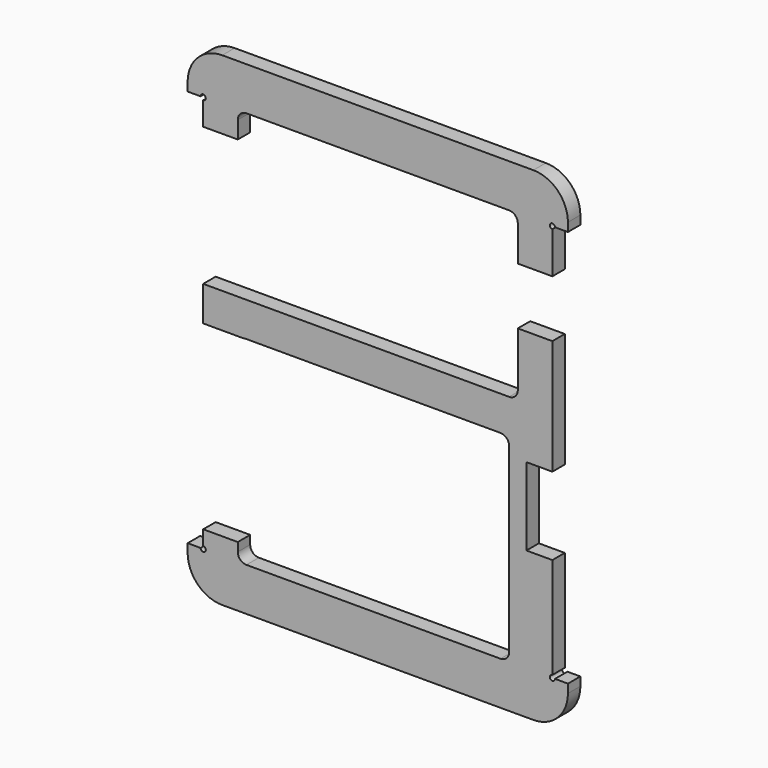
from build123d import *

# Parameters (mm, degrees)
F1_DEPTH = 9


with BuildPart() as f1:
    # F0 (on Front) → F1 (new body)
    with BuildSketch(Plane.XZ):
        with BuildLine():
            Line((90, 137.55102), (-90, 137.55102))
            ThreePointArc((-90, 137.55102), (-104.142136, 131.693156), (-110, 117.55102))
            Line((-110, 117.55102), (-110, 112.55102))
            Line((-110, 112.55102), (-102.5, 112.55102))
            ThreePointArc((-102.5, 112.55102), (-101, 114.05102), (-99.5, 112.55102))
            ThreePointArc((-99.5, 112.55102), (-99.93934, 111.49036), (-101, 111.05102))
            Line((-101, 111.05102), (-101, 97.55102))
            Line((-101, 97.55102), (-81, 97.55102))
            Line((-81, 97.55102), (-81, 107.55102))
            ThreePointArc((-81, 107.55102), (-79.535534, 111.086554), (-76, 112.55102))
            Line((-76, 112.55102), (76, 112.55102))
            ThreePointArc((76, 112.55102), (79.535534, 111.086554), (81, 107.55102))
            Line((81, 107.55102), (81, 87.05102))
            Line((81, 87.05102), (101, 87.05102))
            Line((101, 87.05102), (101, 111.05102))
            ThreePointArc((101, 111.05102), (99.93934, 113.611681), (102.5, 112.55102))
            Line((102.5, 112.55102), (110, 112.55102))
            Line((110, 112.55102), (110, 117.55102))
            ThreePointArc((110, 117.55102), (104.142136, 131.693156), (90, 137.55102))
        make_face()
        with BuildLine():
            ThreePointArc((-110, -122.44898), (-104.142136, -136.591115), (-90, -142.44898))
            Line((-90, -142.44898), (90, -142.44898))
            ThreePointArc((90, -142.44898), (104.142136, -136.591115), (110, -122.44898))
            Line((110, -122.44898), (110, -117.44898))
            Line((110, -117.44898), (102.5, -117.44898))
            ThreePointArc((102.5, -117.44898), (99.93934, -118.50964), (101, -115.94898))
            Line((101, -115.94898), (101, -107.44898))
            Line((101, -107.44898), (101, -57.44898))
            Line((101, -57.44898), (86, -57.44898))
            Line((86, -57.44898), (86, -12.44898))
            Line((86, -12.44898), (101, -12.44898))
            Line((101, -12.44898), (101, 54.05102))
            Line((101, 54.05102), (81, 54.05102))
            Line((81, 54.05102), (81, 22.55102))
            ThreePointArc((81, 22.55102), (79.535534, 19.015487), (76, 17.55102))
            Line((76, 17.55102), (-76, 17.55102))
            Line((-76, 17.55102), (-101, 17.55102))
            Line((-101, 17.55102), (-101, -2.618334))
            Line((-101, -2.618334), (-77.290298, -2.618334))
            ThreePointArc((-77.290298, -2.618334), (-76.650682, -2.491499), (-76, -2.44898))
            Line((-76, -2.44898), (71, -2.44898))
            ThreePointArc((71, -2.44898), (74.535534, -3.913446), (76, -7.44898))
            Line((76, -7.44898), (76, -33.110831))
            Line((76, -33.110831), (76, -112.44898))
            ThreePointArc((76, -112.44898), (74.535534, -115.984513), (71, -117.44898))
            Line((71, -117.44898), (-76, -117.44898))
            ThreePointArc((-76, -117.44898), (-79.535534, -115.984513), (-81, -112.44898))
            Line((-81, -112.44898), (-81, -107.44898))
            Line((-81, -107.44898), (-101, -107.44898))
            Line((-101, -107.44898), (-101, -115.94898))
            ThreePointArc((-101, -115.94898), (-99.93934, -116.388319), (-99.5, -117.44898))
            ThreePointArc((-99.5, -117.44898), (-101, -118.94898), (-102.5, -117.44898))
            Line((-102.5, -117.44898), (-110, -117.44898))
            Line((-110, -117.44898), (-110, -122.44898))
        make_face()
    extrude(amount=F1_DEPTH)


solid = f1.part
